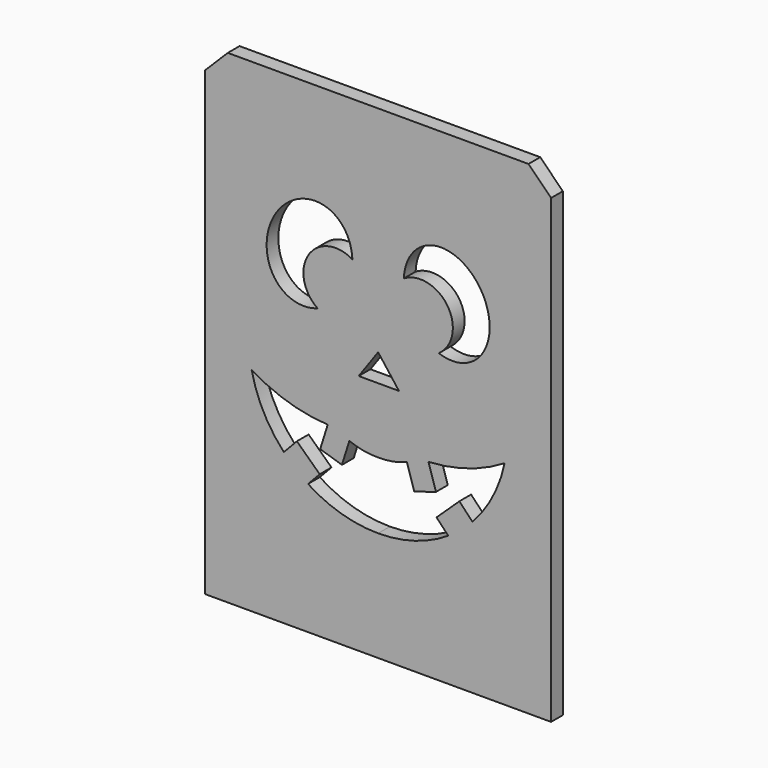
from build123d import *

# Parameters (mm, degrees)
F0_W     = 77.724
F0_H     = 108.712
F1_DEPTH = 3.302
F3_R     = 13.3445871966
F4_DEPTH = 3.302
F5_SIZE  = 5.08
F7_DEPTH = 3.303


with BuildPart() as f1:
    # F0 (on Front) → F1 (new body)
    with BuildSketch(Plane.XZ):
        Rectangle(F0_W, F0_H)
    extrude(amount=F1_DEPTH)

    # F3 (on face) → F4 (join)
    with BuildSketch(Plane.XZ.offset(3.302)):
        with BuildLine():
            add(Edge.make_bspline(
                [(-33.1284857231, -24.3833554431), (-30.3980902484, -23.448268281), (-27.6625298974, -23.0135580616), (-24.9168122419, -22.8877504962)],
                knots=[0.0236239796, 0.0236239796, 0.0236239796, 0.0236239796, 0.1438563975, 0.1438563975, 0.1438563975, 0.1438563975], degree=3))
            ThreePointArc((-33.1284857231, -24.3833554431), (-29.1410849834, -38.4326879001), (-15.8749999992, -44.5395771521))
            ThreePointArc((-15.8749999992, -44.5395771521), (-7.7803065213, -45.3411097626), (9e-10, -47.7145771515))
            ThreePointArc((9e-10, -47.7145771515), (7.780306523, -45.3411097624), (15.8750000008, -44.5395771515))
            ThreePointArc((15.8750000008, -44.5395771515), (28.9710149024, -38.6284104056), (33.2008619827, -24.8968448621))
            add(Edge.make_bspline(
                [(22.7832318895, -28.264905571), (26.870414184, -28.3483991479), (30.7081117423, -27.7740633769), (33.2008619827, -24.8968448621)],
                knots=[0.8224951004, 0.8224951004, 0.8224951004, 0.8224951004, 0.9908039431, 0.9908039431, 0.9908039431, 0.9908039431], degree=3))
            add(Edge.make_bspline(
                [(15.9953683619, -27.7933645546), (16.7598950609, -27.862629463), (19.0104314318, -28.0581684328), (21.3052242348, -28.2347126075), (22.7832318895, -28.264905571)],
                knots=[0.7300371536, 0.7300371536, 0.7300371536, 0.7300371536, 0.7616312241, 0.8224951004, 0.8224951004, 0.8224951004, 0.8224951004], degree=3))
            add(Edge.make_bspline(
                [(12.0445173218, -27.4086319137), (13.3501324037, -27.5450763369), (14.6659309282, -27.6729196282), (15.9953683619, -27.7933645546)],
                knots=[0.6750981435, 0.6750981435, 0.6750981435, 0.6750981435, 0.7300371536, 0.7300371536, 0.7300371536, 0.7300371536], degree=3))
            add(Edge.make_bspline(
                [(6.5035843618, -26.7679947406), (8.3365045469, -27.0014140297), (10.1801283043, -27.2137923413), (12.0445173218, -27.4086319137)],
                knots=[0.5966464709, 0.5966464709, 0.5966464709, 0.5966464709, 0.6750981435, 0.6750981435, 0.6750981435, 0.6750981435], degree=3))
            add(Edge.make_bspline(
                [(-15.7821923495, -23.3437299796), (-10.5480047667, -23.9624284424), (-3.1004870846, -25.4363431139), (4.3262408996, -26.490713729), (6.5035843618, -26.7679947406)],
                knots=[0.2765511336, 0.2765511336, 0.2765511336, 0.2765511336, 0.5034529768, 0.5966464709, 0.5966464709, 0.5966464709, 0.5966464709], degree=3))
            add(Edge.make_bspline(
                [(-24.9168122419, -22.8877504962), (-22.5127229742, -22.777596192), (-19.4725911361, -22.9372512735), (-16.4147628171, -23.2689580365), (-15.7821923495, -23.3437299796)],
                knots=[0.1438563975, 0.1438563975, 0.1438563975, 0.1438563975, 0.2491292266, 0.2765511336, 0.2765511336, 0.2765511336, 0.2765511336], degree=3))
        make_face()
        with BuildLine():
            ThreePointArc((-24.3962783332, -9.4429305632), (-23.5493439512, -16.2082072875), (-24.9168122419, -22.8877504962))
            add(Edge.make_bspline(
                [(-24.9168122419, -22.8877504962), (-22.5127229742, -22.777596192), (-19.4725911361, -22.9372512735), (-16.4147628171, -23.2689580365), (-15.7821923495, -23.3437299796)],
                knots=[0.1438563975, 0.1438563975, 0.1438563975, 0.1438563975, 0.2491292266, 0.2765511336, 0.2765511336, 0.2765511336, 0.2765511336], degree=3))
            ThreePointArc((-15.7821923495, -23.3437299796), (-16.7909764629, -16.1431204561), (-15.7821923495, -8.9425109327))
            add(Edge.make_bspline(
                [(-20.8150930703, 3.0249084812), (-20.084698855, 3.2617064252), (-18.5750809579, 3.7511331524), (-20.1108934357, 5.7423249077), (-21.3989497629, 8.4805039988), (-19.5926222129, 8.6232034417), (-20.0960081308, 6.4882204736), (-17.9845367, 4.4717269755), (-19.4827279307, 7.4877563676), (-17.6531933794, 7.9935220173), (-17.6518746238, 3.7165445405), (-19.7201607312, 2.5442912986), (-19.0033211234, 0.5113026434), (-21.5358089244, 0.646088536), (-20.7796208818, -5.7027505195), (-14.9489180074, 0.0978196974), (-17.977030073, 1.5236381763), (-14.9168721562, 2.6666255778), (-16.1211586732, 6.3598723413), (-13.8328776174, 5.6005762962), (-15.1421128769, 3.3154322822), (-14.4747759607, 0.1624480587), (-13.8084140261, 5.1188240441), (-11.0343102947, 2.7331078221), (-14.5615723999, -0.162479085), (-17.3031216925, -3.3366762112), (-18.0975664008, -8.8898410691), (-13.4356882131, -5.5746333853), (-15.3648709473, -3.8082111356), (-12.0527139611, -3.6659211986), (-13.248535603, -1.079337143), (-9.5910344453, -1.7447413323), (-10.7422685487, 3.0079941618), (-8.9849464366, -1.96339633), (-8.8102943074, 5.4988116301), (-7.4861779197, -0.6957485248), (-9.6724060403, -0.966318494), (-11.0218385517, -3.5291741027), (-13.7004320012, -4.2797101397), (-12.8029593717, -6.9381020727), (-14.7089673153, -8.2196946287), (-15.7821923495, -8.9425109327)],
                knots=[0, 0, 0, 0, 0.0231511603, 0.0478500744, 0.0752755755, 0.0903366321, 0.1142638791, 0.1352244444, 0.1593040946, 0.1744947233, 0.2060790631, 0.2315955315, 0.2516703156, 0.2733460952, 0.3049833457, 0.3431527772, 0.3650886659, 0.3896180862, 0.4183185893, 0.4354180503, 0.4626318971, 0.4841465121, 0.512674348, 0.5346264378, 0.5675595767, 0.6056671213, 0.6368592747, 0.6681518224, 0.6879987795, 0.7121233264, 0.7334743783, 0.7591560932, 0.7848708559, 0.8073025156, 0.8374341523, 0.8673194844, 0.8904493251, 0.9187369989, 0.9444600919, 0.9686867066, 1, 1, 1, 1], degree=3))
            add(Edge.make_bspline(
                [(-25.8914344013, -2.4853385985), (-26.396572956, -2.0003344615), (-27.3138435109, -1.1196261405), (-29.1352849859, -2.0598979002), (-28.7106271057, 0.8204026064), (-32.0312644098, -1.1715068103), (-31.3002695814, 3.7485837155), (-29.4483178555, 3.8301118075), (-30.8071023081, 1.5653871303), (-28.9526334159, 1.3619840648), (-29.4792210737, 5.2085047756), (-26.921055424, 4.4342075194), (-28.8119762327, 2.2854028303), (-27.5906596289, -1.3990701213), (-27.7699356497, 3.0747016102), (-25.2099586785, 2.6066763518), (-26.5953437573, -0.395391095), (-23.7025988652, -2.0340069969), (-23.1772681034, -6.0499515041), (-20.5435134821, -4.1808959475), (-25.0748704565, 2.6489737746), (-20.1368344266, 0.7949418705), (-20.6048167244, 2.3336418411), (-20.8150930703, 3.0249084812)],
                knots=[0, 0, 0, 0, 0.0457250435, 0.0830311605, 0.1245988121, 0.1705511092, 0.2321726775, 0.2625557415, 0.30723362, 0.3358214151, 0.393012377, 0.4286583434, 0.4808472993, 0.5282384525, 0.5813000538, 0.6192860311, 0.6705302416, 0.7286736986, 0.7872738172, 0.8280557864, 0.9074882994, 0.958434574, 1, 1, 1, 1], degree=3))
            ThreePointArc((-25.8914344013, -2.4853385985), (-24.9290967698, -4.9824855111), (-24.3962783332, -7.6050683856))
            add(Edge.make_bspline(
                [(-24.3962783332, -9.4429305632), (-25.4357243907, -10.1342055857), (-27.412273175, -11.4486922391), (-27.4547789496, -7.4214675852), (-30.5466070306, -9.5733915774), (-30.4542370334, -5.4520792207), (-32.3177618611, -5.8417990903), (-32.7140680164, -4.2769830225), (-32.0543630337, -2.7007935171), (-32.1251676799, -4.5533058245), (-30.3843482976, -5.4648837492), (-32.0501040037, -1.6640768267), (-30.4436660674, -1.9005229869), (-30.1720801803, -6.5942041642), (-29.7456686663, -3.178537531), (-28.1334595609, -3.5814958653), (-29.8697325683, -5.6494579394), (-29.5018476184, -7.7306733995), (-27.2359049314, -6.3250302911), (-26.4788550338, -9.3239236743), (-25.0993332141, -8.1853413666), (-24.3962783332, -7.6050683856)],
                knots=[0, 0, 0, 0, 0.0670169121, 0.1274354192, 0.1840138636, 0.2505621343, 0.2960523516, 0.3441354147, 0.3840734056, 0.4287810373, 0.4665753725, 0.5348972739, 0.5667760176, 0.6369485958, 0.6883070256, 0.7231632661, 0.7842390879, 0.8324575559, 0.8851485442, 0.9414679355, 1, 1, 1, 1], degree=3))
        make_face()
        with BuildLine():
            add(Edge.make_bspline(
                [(-20.2924981713, -15.781018883), (-20.5370775999, -16.1379246214), (-20.134132622, -17.1534868603), (-20.8639151565, -18.5661521393), (-21.9358468203, -19.4575377926), (-22.3700864307, -21.8865095148), (-20.237349518, -21.5763362209), (-19.5672362136, -20.438180371), (-19.2965010699, -18.8033454883), (-19.7803037906, -17.8720601229), (-19.908738804, -16.4540465799), (-19.0188083322, -15.0649598827), (-20.0853771822, -15.4787748635), (-20.2924981713, -15.781018883)],
                knots=[0, 0, 0, 0, 0.0904118203, 0.1854248684, 0.2814922978, 0.3865094541, 0.4809925493, 0.5711470892, 0.6690619631, 0.748512495, 0.8439845899, 0.9234351565, 1, 1, 1, 1], degree=3))
        make_face(mode=Mode.SUBTRACT)
        with BuildLine():
            add(Edge.make_bspline(
                [(-22.3910957575, -11.5529615432), (-22.0568118654, -12.2037220004), (-21.1170784891, -12.8832887919), (-21.7129777335, -14.1967346716), (-20.5379115522, -14.568750962), (-20.4867607869, -13.5076873001), (-20.8432701563, -11.8831681267), (-21.6439811905, -11.2404808042), (-22.9718655512, -9.3501247732), (-22.6978835435, -10.9557285785), (-22.3910957575, -11.5529615432)],
                knots=[0, 0, 0, 0, 0.1505340204, 0.2658311351, 0.3614801071, 0.4617187858, 0.6051372816, 0.7298931385, 0.8618479683, 1, 1, 1, 1], degree=3))
        make_face(mode=Mode.SUBTRACT)
        with BuildLine():
            add(Edge.make_bspline(
                [(-18.3790698647, -10.1024601609), (-18.7969421772, -10.2564427963), (-19.1553590595, -11.577398565), (-19.219348267, -12.6506630096), (-19.2408550579, -13.9350019391), (-18.8743899715, -14.8858473731), (-18.2833235222, -14.0155234153), (-18.1315989973, -13.0706647968), (-18.7065283271, -12.3462231403), (-18.4694817034, -11.2210464666), (-17.1590443019, -10.374237249), (-18.0760721444, -9.9908079022), (-18.3790698647, -10.1024601609)],
                knots=[0, 0, 0, 0, 0.1240572212, 0.2333232805, 0.347818092, 0.428679644, 0.5131510602, 0.6107152668, 0.7012679009, 0.8047604962, 0.9100465523, 1, 1, 1, 1], degree=3))
        make_face(mode=Mode.SUBTRACT)
        with BuildLine():
            ThreePointArc((5.4403450859, -12.5461180708), (6.6092683485, -19.609411059), (6.5035843618, -26.7679947406))
            add(Edge.make_bspline(
                [(6.5035843618, -26.7679947406), (8.3365045469, -27.0014140297), (10.1801283043, -27.2137923413), (12.0445173218, -27.4086319137)],
                knots=[0.5966464709, 0.5966464709, 0.5966464709, 0.5966464709, 0.6750981435, 0.6750981435, 0.6750981435, 0.6750981435], degree=3))
            Line((12.0445173218, -27.4086319137), (12.0445173218, -21.4756764472))
            ThreePointArc((12.0445173218, -21.4756764472), (14.0199428419, -19.5002509271), (15.9953683619, -21.4756764472))
            Line((15.9953683619, -21.4756764472), (15.9953683619, -27.7933645546))
            add(Edge.make_bspline(
                [(15.9953683619, -27.7933645546), (16.7598950609, -27.862629463), (19.0104314318, -28.0581684328), (21.3052242348, -28.2347126075), (22.7832318895, -28.264905571)],
                knots=[0.7300371536, 0.7300371536, 0.7300371536, 0.7300371536, 0.7616312241, 0.8224951004, 0.8224951004, 0.8224951004, 0.8224951004], degree=3))
            ThreePointArc((22.7832318895, -28.264905571), (22.4736636829, -20.3696155623), (23.5801553445, -12.5461180708))
            Line((23.5801553445, -12.5461180708), (28.4554600831, -13.4531514135))
            ThreePointArc((28.4554600831, -13.4531514135), (31.673336573, -11.9989868814), (31.424967593, -8.4765393743))
            ThreePointArc((31.424967593, -8.4765393743), (29.2529740879, -8.2440657168), (29.0205004305, -10.4160592219))
            ThreePointArc((29.0205004305, -10.4160592219), (29.058069024, -11.9208265797), (27.614886003, -12.3485636115))
            ThreePointArc((27.614886003, -12.3485636115), (23.4712314741, -5.8636115848), (28.4554600831, 0))
            ThreePointArc((28.4554600831, 0), (23.3706331923, -0.6006945639), (18.2612345592, -0.9328753515))
            Line((18.2612345592, -0.9328753515), (21.109645709, 8.6648291047))
            Line((21.109645709, 8.6648291047), (22.7452469365, 8.179414619))
            ThreePointArc((22.7452469365, 8.179414619), (24.0675287583, 9.9087492795), (21.9295363303, 9.4988517773))
            ThreePointArc((21.9295363303, 9.4988517773), (17.0915933325, 15.0640837031), (15.5871994793, 22.2831070423))
            Line((15.5871994793, 22.2831070423), (14.8853833456, 29.6840668302))
            Line((14.8853833456, 29.6840668302), (17.9889984262, 30.165095753))
            Line((17.9889984262, 30.165095753), (17.720128815, 31.8998516907))
            Line((17.720128815, 31.8998516907), (14.8043116011, 31.4479295364))
            Line((14.8043116011, 31.4479295364), (14.2361351446, 35.1138234881))
            Line((14.2361351446, 35.1138234881), (12.1174789965, 34.7854532301))
            Line((12.1174789965, 34.7854532301), (12.6562453806, 31.3093140721))
            Line((12.6562453806, 31.3093140721), (10.0379107516, 30.7162171018))
            Line((10.0379107516, 30.7162171018), (10.2517836951, 29.4975203391))
            Line((10.2517836951, 29.4975203391), (12.7509497106, 29.9361068755))
            Line((12.7509497106, 29.9361068755), (14.0939988196, 22.2831070423))
            ThreePointArc((14.0939988196, 22.2831070423), (12.6245914015, 15.2177663733), (7.6988285058, 9.9437681912))
            ThreePointArc((7.6988285058, 9.9437681912), (5.5906171254, 10.4864212664), (6.8022884056, 8.6778637491))
            Line((6.8022884056, 8.6778637491), (8.4650181234, 9.060157463))
            Line((8.4650181234, 9.060157463), (10.762639533, -0.9330055424))
            ThreePointArc((10.762639533, -0.9330055424), (5.6515483018, -0.6008483836), (0.5650403473, 0))
            ThreePointArc((0.5650403473, 0), (5.5492689564, -5.8636115848), (1.4056144274, -12.3485636115))
            ThreePointArc((1.4056144274, -12.3485636115), (-0.0375685935, -11.9208265797), (0, -10.4160592219))
            ThreePointArc((0, -10.4160592219), (-0.2324736575, -8.2440657168), (-2.4044671625, -8.4765393743))
            ThreePointArc((-2.4044671625, -8.4765393743), (-2.6528361426, -11.9989868814), (0.5650403473, -13.4531514135))
            Line((0.5650403473, -13.4531514135), (5.4403450859, -12.5461180708))
        make_face()
        Polygon((9.1227404773, -7.4148867279), (8.4774624556, -4.9826856703), (9.749203307, -4.868891682), (10.3401336819, -7.1323132142), align=None, mode=Mode.SUBTRACT)
        Polygon((10.9397291529, -9.5362256838), (9.768018499, -9.8470877856), (9.2899553012, -8.0451578014), (10.461665955, -7.7342956997), align=None, mode=Mode.SUBTRACT)
        Polygon((12.2584053658, -7.3401992658), (12.7159978886, -9.0649705743), (11.5734964264, -9.3680832964), (11.1159039036, -7.6433119879), align=None, mode=Mode.SUBTRACT)
        Polygon((10.332212454, -4.8167246576), (11.5597705233, -4.7068840966), (12.1378842059, -6.8859273354), (10.9000811353, -7.0559568703), align=None, mode=Mode.SUBTRACT)
        Polygon((17.9045965268, -7.6433119879), (17.4470040041, -9.3680832964), (16.3045025419, -9.0649705743), (16.7620950646, -7.3401992658), align=None, mode=Mode.SUBTRACT)
        Polygon((18.5588344754, -7.7342956997), (19.7305451293, -8.0451578014), (19.2524819314, -9.8470877856), (18.0807712776, -9.5362256838), align=None, mode=Mode.SUBTRACT)
        Polygon((18.6803667486, -7.1323132142), (19.2712971234, -4.868891682), (20.5430379748, -4.9826856703), (19.8977599531, -7.4148867279), align=None, mode=Mode.SUBTRACT)
        Polygon((16.8826162245, -6.8859273354), (17.4607299071, -4.7068840966), (18.6882879764, -4.8167246576), (18.1204192951, -7.0559568703), align=None, mode=Mode.SUBTRACT)
        with BuildLine():
            ThreePointArc((14.2767767446, 4.6611620079), (12.1414040207, 5.7303494735), (11.1097303552, 7.8840968947))
            Line((11.1097303552, 7.8840968947), (14.2767767446, 7.8840968947))
            Line((14.2767767446, 7.8840968947), (14.2767767446, 4.6611620079))
        make_face(mode=Mode.SUBTRACT)
        with BuildLine():
            ThreePointArc((11.1459939594, 8.983289175), (12.2280091457, 10.9819830574), (14.2767767446, 11.9658963789))
            Line((14.2767767446, 11.9658963789), (14.2767767446, 8.983289175))
            Line((14.2767767446, 8.983289175), (11.1459939594, 8.983289175))
        make_face(mode=Mode.SUBTRACT)
        with BuildLine():
            ThreePointArc((18.430607267, 7.8840968947), (17.3673699452, 5.6986165643), (15.1747141111, 4.6502567644))
            Line((15.1747141111, 4.6502567644), (15.1747141111, 7.8840968947))
            Line((15.1747141111, 7.8840968947), (18.430607267, 7.8840968947))
        make_face(mode=Mode.SUBTRACT)
        with BuildLine():
            ThreePointArc((15.1747141111, 11.9768016224), (17.2797356479, 11.0126579566), (18.3943436628, 8.983289175))
            Line((18.3943436628, 8.983289175), (15.1747141111, 8.983289175))
            Line((15.1747141111, 8.983289175), (15.1747141111, 11.9768016224))
        make_face(mode=Mode.SUBTRACT)
        with BuildLine():
            ThreePointArc((1.5084841621, 28.7364097307), (5.1963193944, 39.8156504287), (15.8749999992, 44.5395771521))
            ThreePointArc((15.8749999992, 44.5395771521), (7.7803065213, 45.3411097626), (-9e-10, 47.7145771515))
            ThreePointArc((-9e-10, 47.7145771515), (-7.780306523, 45.3411097624), (-15.8750000008, 44.5395771515))
            ThreePointArc((-15.8750000008, 44.5395771515), (-30.2008361805, 37.0625327748), (-32.2586794783, 21.0343995142))
            ThreePointArc((-32.2586794783, 21.0343995142), (-31.4618060576, 11.8664205536), (-35.4362714152, 3.5663922047))
            ThreePointArc((-35.4362714152, 3.5663922047), (-26.8661908779, 8.4248419398), (-17.0921185192, 9.6570447531))
            ThreePointArc((-17.0921185192, 9.6570447531), (-3.3712650978, 14.8871009528), (1.5084841621, 28.7364097307))
        make_face()
        with Locations((-15.8750000008, 27.0770771515)):
            Circle(F3_R, mode=Mode.SUBTRACT)
    extrude(amount=-F4_DEPTH)

    # F5
    f5_edges = [f1.edges().sort_by_distance(p)[0] for p in [
        (-38.862, -1.651, 54.356),
        (38.862, -1.651, 54.356),
    ]]
    chamfer(f5_edges, length=F5_SIZE)

    # F6 (on face) → F7 (cut, through all)
    with BuildSketch(Plane.XZ.offset(3.302)):
        with BuildLine():
            ThreePointArc((5.7757666146, 22.609140253), (15.6416294725, 20.3104914352), (13.6132997632, 10.3855272082))
            add(Edge.make_bspline(
                [(13.6132997632, 10.3855272082), (38.942541189, 1.270026192), (22.9883596932, 26.1525673378), (7.0341781974, 51.0351084836), (5.7757666146, 22.609140253)],
                knots=[5.5954690947, 5.5954690947, 5.5954690947, 8.0209649387, 8.0209649387, 10.4464607828, 10.4464607828, 10.4464607828], degree=2, weights=[1, 0.3504470718, 1, 0.3504470718, 1]))
        make_face()
        Polygon((4.6801641583, 0), (0, 6.1310827732), (-4.3672695756, 0), align=None)
        with BuildLine():
            ThreePointArc((-15.7507828857, -25.0461277001), (-8.2106719148, -28.5054611384), (1.1e-09, -29.690842082))
            ThreePointArc((0, -29.690842082), (8.2106719158, -28.5054611381), (15.7507828867, -25.0461276995))
            Line((15.7507828867, -25.0461276995), (13.1229529608, -22.2676816723))
            Line((13.1229529608, -22.2676816723), (18.2542123508, -17.4145814679))
            Line((18.2542123508, -17.4145814679), (21.182530755, -20.5107387025))
            ThreePointArc((21.182530755, -20.5107387025), (25.7569660306, -14.0504124271), (28.4160997436, -6.594523374))
            ThreePointArc((28.4160997436, -6.594523374), (20.197522428, -10.3014258409), (11.3208206988, -11.8794959923))
            Line((11.3208206988, -11.8794959923), (13.0121000111, -17.2614511102))
            Line((13.0121000111, -17.2614511102), (8.1299955286, -18.7956523681))
            Line((8.1299955286, -18.7956523681), (6.4667478635, -13.5028989958))
            ThreePointArc((6.4667478635, -13.5028989958), (3.2923883342, -14.4145728535), (0, -14.6751236171))
            ThreePointArc((5e-10, -14.6751236171), (-3.2923883337, -14.4145728536), (-6.466747863, -13.5028989961))
            Line((-6.466747863, -13.5028989961), (-8.1299955279, -18.7956523684))
            Line((-8.1299955279, -18.7956523684), (-13.0121000105, -17.2614511107))
            Line((-13.0121000105, -17.2614511107), (-11.3208206984, -11.8794959927))
            ThreePointArc((-11.3208206984, -11.8794959927), (-20.1975224276, -10.3014258416), (-28.4160997433, -6.594523375))
            ThreePointArc((-28.4160997433, -6.594523375), (-25.7569660301, -14.050412428), (-21.1825307542, -20.5107387033))
            Line((-21.1825307542, -20.5107387033), (-18.2542123502, -17.4145814686))
            Line((-18.2542123502, -17.4145814686), (-13.12295296, -22.2676816727))
            Line((-13.12295296, -22.2676816727), (-15.7507828857, -25.0461277001))
        make_face()
        with BuildLine():
            ThreePointArc((-13.6132997636, 10.3855272077), (-15.6416294733, 20.3104914347), (-5.7757666155, 22.6091402528))
            add(Edge.make_bspline(
                [(-5.7757666155, 22.6091402528), (-7.0341781993, 51.0351084833), (-22.9883596942, 26.1525673369), (-38.942541189, 1.2700261905), (-13.6132997636, 10.3855272077)],
                knots=[2.1199098315, 2.1199098315, 2.1199098315, 4.5454056756, 4.5454056756, 6.9709015197, 6.9709015197, 6.9709015197], degree=2, weights=[1, 0.3504470718, 1, 0.3504470718, 1]))
        make_face()
    extrude(amount=-F7_DEPTH, mode=Mode.SUBTRACT)


solid = f1.part
